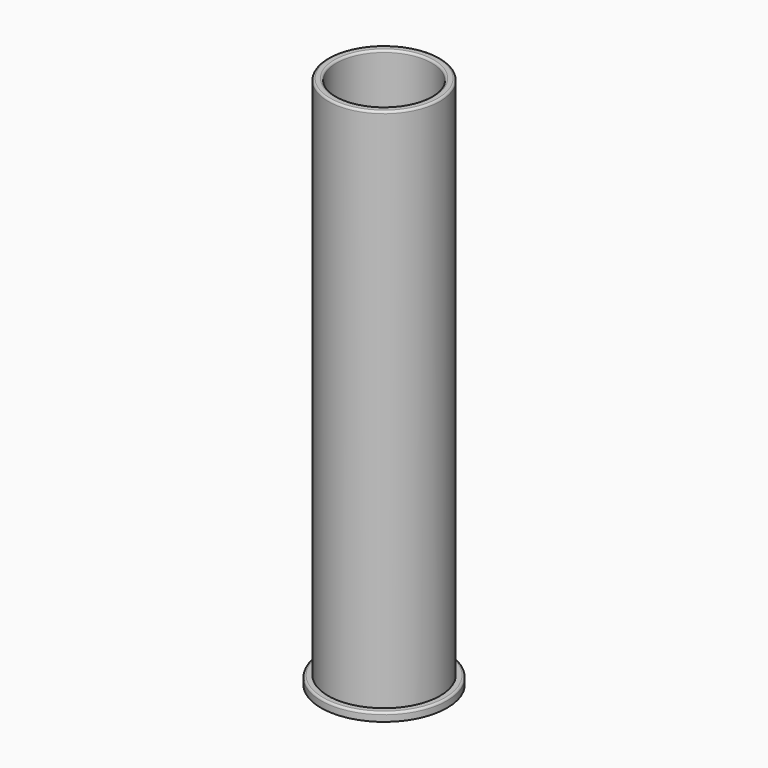
from build123d import *

# Parameters (mm, degrees)
CYLINDER_R        = 9
CYLINDER_DEPTH    = 1.2
CYLINDER001_R     = 8
CYLINDER001_DEPTH = 75
CYLINDER002_R     = 4
CYLINDER002_DEPTH = 76.2
CYLINDER003_R     = 6.8
CYLINDER003_DEPTH = 75
FILLET_R          = 0.3


with BuildPart() as part:
    # Cylinder → Cylinder (join)
    with BuildSketch(Plane.XY):
        Circle(CYLINDER_R)
    extrude(amount=CYLINDER_DEPTH)

    # Cylinder001 → Cylinder001 (join)
    with BuildSketch(Plane.XY.offset(1.2)):
        Circle(CYLINDER001_R)
    extrude(amount=CYLINDER001_DEPTH)

    # Cylinder002 → Cylinder002 (cut)
    with BuildSketch(Plane.XY):
        Circle(CYLINDER002_R)
    extrude(amount=CYLINDER002_DEPTH, mode=Mode.SUBTRACT)

    # Cylinder003 → Cylinder003 (cut)
    with BuildSketch(Plane.XY.offset(1.2)):
        Circle(CYLINDER003_R)
    extrude(amount=CYLINDER003_DEPTH, mode=Mode.SUBTRACT)

    # Fillet
    fillet_edges = [part.edges().sort_by_distance(p)[0] for p in [
        (-9, 0, 1.2),
        (-8, 0, 76.2),
        (-6.8, 0, 76.2),
    ]]
    fillet(fillet_edges, radius=FILLET_R)


solid = part.part
